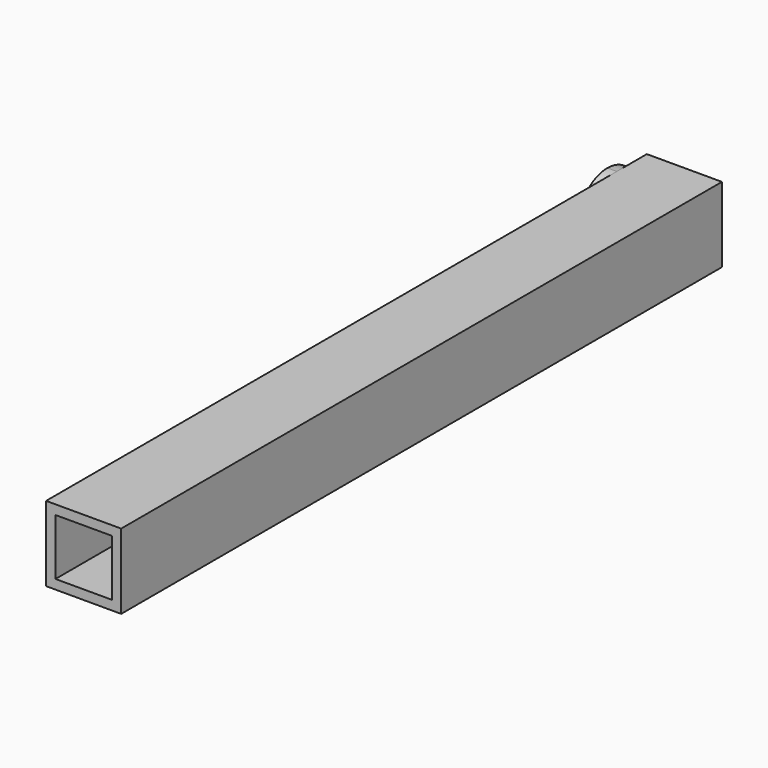
from build123d import *

# Parameters (mm, degrees)
F0_W     = 25.4
F0_H     = 254
F1_DEPTH = 25.4
F2_T     = -3.175
F4_DEPTH = 3.175


with BuildPart() as f1:
    # F0 (on Top) → F1 (new body)
    with BuildSketch(Plane.XY):
        with Locations((2.03523, 88.852645)):
            Rectangle(F0_W, F0_H)
    extrude(amount=F1_DEPTH)

    # F2
    f2_openings = [f1.faces().sort_by_distance(p)[0] for p in [
        (2.03523, -38.147355, 12.7),
    ]]
    offset(amount=F2_T, openings=f2_openings)

    # F3 (on face) → F4 (join)
    with BuildSketch(Plane(origin=(-10.66477, 0, 0), x_dir=(0, -1, 0), z_dir=(-1, 0, 0))):
        with BuildLine():
            ThreePointArc((-203.152645, 0), (-194.172389, 3.719744), (-190.452645, 12.7))
            ThreePointArc((-190.452645, 12.7), (-194.172389, 21.680256), (-203.152645, 25.4))
            ThreePointArc((-203.152645, 25.4), (-212.132901, 21.680256), (-215.852645, 12.7))
            ThreePointArc((-215.852645, 12.7), (-212.132901, 3.719744), (-203.152645, 0))
        make_face()
    extrude(amount=F4_DEPTH)


solid = f1.part
